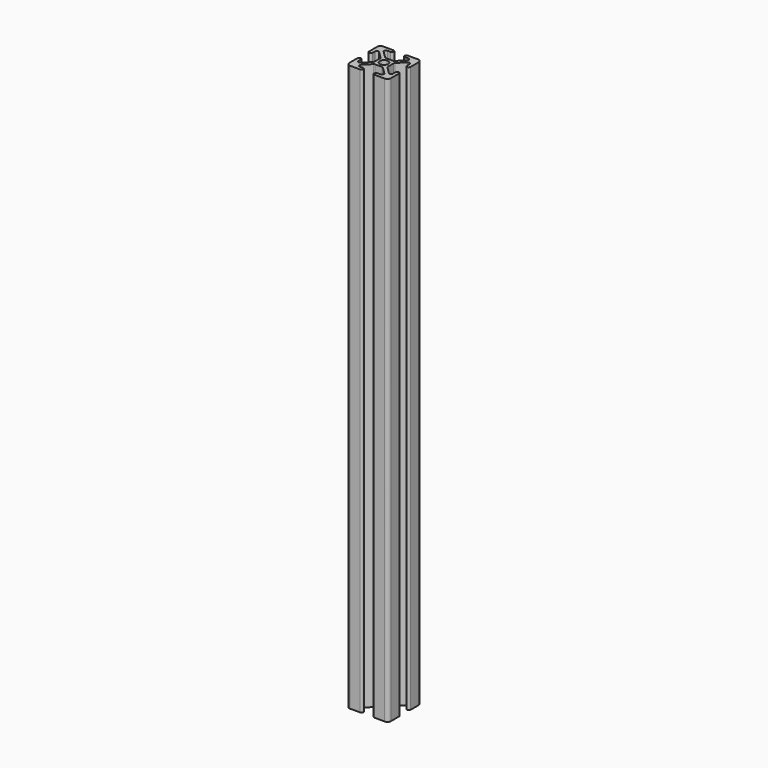
from build123d import *

# Parameters (mm, degrees)
F0_R     = 2.5
F1_DEPTH = 340


with BuildPart() as f1:
    # F0 (on Top) → F1 (new body)
    with BuildSketch(Plane.XY):
        with BuildLine():
            ThreePointArc((-10.36, 12.5), (-11.873209, 11.873209), (-12.5, 10.36))
            Line((-12.5, 10.36), (-12.5, 4.32))
            ThreePointArc((-12.5, 4.32), (-11.43, 3.25), (-10.36, 4.32))
            Line((-10.36, 4.32), (-10.36, 6.263583))
            ThreePointArc((-10.36, 6.263583), (-9.699471, 7.252134), (-8.533396, 7.020187))
            Line((-8.533396, 7.020187), (-4.363396, 2.850187))
            ThreePointArc((-4.363396, 2.850187), (-4.131449, 2.503054), (-4.05, 2.093583))
            Line((-4.05, 2.093583), (-4.05, 0))
            Line((-4.05, 0), (-4.05, -2.093583))
            ThreePointArc((-4.05, -2.093583), (-4.131449, -2.503054), (-4.363396, -2.850187))
            Line((-4.363396, -2.850187), (-8.533396, -7.020187))
            ThreePointArc((-8.533396, -7.020187), (-9.699471, -7.252134), (-10.36, -6.263583))
            Line((-10.36, -6.263583), (-10.36, -4.32))
            ThreePointArc((-10.36, -4.32), (-11.43, -3.25), (-12.5, -4.32))
            Line((-12.5, -4.32), (-12.5, -10.36))
            ThreePointArc((-12.5, -10.36), (-11.873209, -11.873209), (-10.36, -12.5))
            Line((-10.36, -12.5), (-4.32, -12.5))
            ThreePointArc((-4.32, -12.5), (-3.25, -11.43), (-4.32, -10.36))
            Line((-4.32, -10.36), (-6.263583, -10.36))
            ThreePointArc((-6.263583, -10.36), (-7.252134, -9.699471), (-7.020187, -8.533396))
            Line((-7.020187, -8.533396), (-2.850187, -4.363396))
            ThreePointArc((-2.850187, -4.363396), (-2.503054, -4.131449), (-2.093583, -4.05))
            Line((-2.093583, -4.05), (0, -4.05))
            Line((0, -4.05), (2.093583, -4.05))
            ThreePointArc((2.093583, -4.05), (2.503054, -4.131449), (2.850187, -4.363396))
            Line((2.850187, -4.363396), (7.020187, -8.533396))
            ThreePointArc((7.020187, -8.533396), (7.252134, -9.699471), (6.263583, -10.36))
            Line((6.263583, -10.36), (4.32, -10.36))
            ThreePointArc((4.32, -10.36), (3.25, -11.43), (4.32, -12.5))
            Line((4.32, -12.5), (10.36, -12.5))
            ThreePointArc((10.36, -12.5), (11.873209, -11.873209), (12.5, -10.36))
            Line((12.5, -10.36), (12.5, -4.32))
            ThreePointArc((12.5, -4.32), (11.43, -3.25), (10.36, -4.32))
            Line((10.36, -4.32), (10.36, -6.263583))
            ThreePointArc((10.36, -6.263583), (9.699471, -7.252134), (8.533396, -7.020187))
            Line((8.533396, -7.020187), (4.363396, -2.850187))
            ThreePointArc((4.363396, -2.850187), (4.131449, -2.503054), (4.05, -2.093583))
            Line((4.05, -2.093583), (4.05, 0))
            Line((4.05, 0), (4.05, 2.093583))
            ThreePointArc((4.05, 2.093583), (4.131449, 2.503054), (4.363396, 2.850187))
            Line((4.363396, 2.850187), (8.533396, 7.020187))
            ThreePointArc((8.533396, 7.020187), (9.699471, 7.252134), (10.36, 6.263583))
            Line((10.36, 6.263583), (10.36, 4.32))
            ThreePointArc((10.36, 4.32), (11.43, 3.25), (12.5, 4.32))
            Line((12.5, 4.32), (12.5, 10.36))
            ThreePointArc((12.5, 10.36), (11.873209, 11.873209), (10.36, 12.5))
            Line((10.36, 12.5), (4.32, 12.5))
            ThreePointArc((4.32, 12.5), (3.25, 11.43), (4.32, 10.36))
            Line((4.32, 10.36), (6.263583, 10.36))
            ThreePointArc((6.263583, 10.36), (7.252134, 9.699471), (7.020187, 8.533396))
            Line((7.020187, 8.533396), (2.850187, 4.363396))
            ThreePointArc((2.850187, 4.363396), (2.503054, 4.131449), (2.093583, 4.05))
            Line((2.093583, 4.05), (0, 4.05))
            Line((0, 4.05), (-2.093583, 4.05))
            ThreePointArc((-2.093583, 4.05), (-2.503054, 4.131449), (-2.850187, 4.363396))
            Line((-2.850187, 4.363396), (-7.020187, 8.533396))
            ThreePointArc((-7.020187, 8.533396), (-7.252134, 9.699471), (-6.263583, 10.36))
            Line((-6.263583, 10.36), (-4.32, 10.36))
            ThreePointArc((-4.32, 10.36), (-3.25, 11.43), (-4.32, 12.5))
            Line((-4.32, 12.5), (-10.36, 12.5))
        make_face()
        Circle(F0_R, mode=Mode.SUBTRACT)
    extrude(amount=F1_DEPTH)


solid = f1.part
